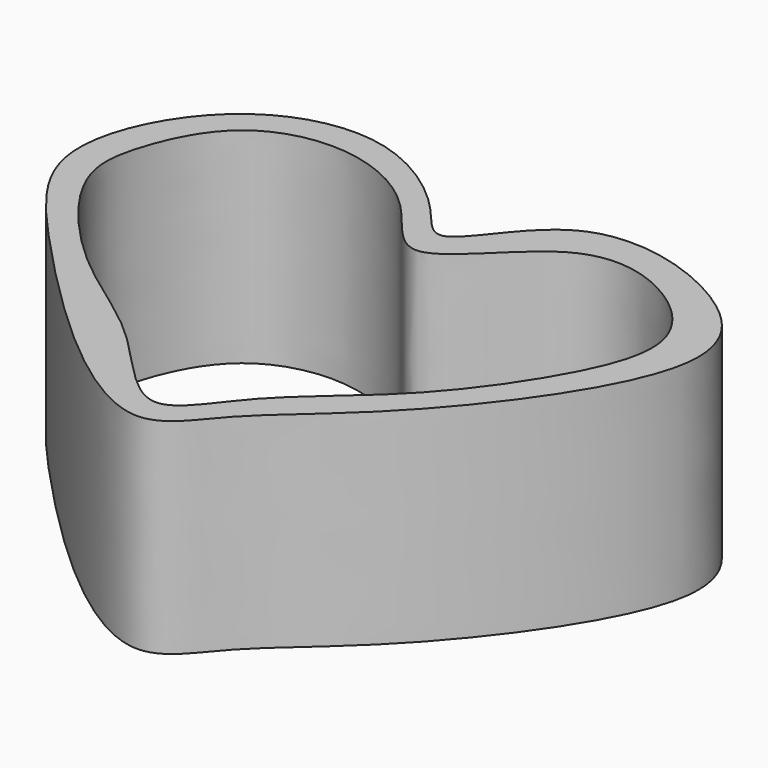
from build123d import *

# Parameters (mm, degrees)
F1_DEPTH = 25.4


with BuildPart() as f1:
    # F0 (on Top) → F1 (new body)
    with BuildSketch(Plane.XY):
        with BuildLine():
            add(Edge.make_bspline(
                [(0, 3.969962243), (-1.4711478294, 3.5493064684), (-4.6481318282, 8.7664928556), (-16.8119907928, 17.6968670143), (-33.2693495807, 13.3531434485), (-42.4206137233, -5.0840437629), (-30.2708044064, -20.2894567388), (-0.1467169212, -50.0700171099), (7.3907396958, -37.4490982928), (19.8203308105, -28.6490432386), (38.448866224, -3.6642330756), (31.829444703, 10.4058319146), (8.4323408776, 18.5212601119), (2.2230588448, 4.6056172884), (0, 3.969962243)],
                knots=[0, 0, 0, 0, 0.0494297399, 0.1275828912, 0.2071141356, 0.2904201571, 0.3813462208, 0.5057416598, 0.5669042304, 0.6495948325, 0.7594459284, 0.832669946, 0.9253064727, 1, 1, 1, 1], degree=3))
        make_face()
        with BuildLine():
            add(Edge.make_bspline(
                [(0, 0), (-2.5821169337, -0.1877222818), (-6.8266116849, 7.9570591194), (-18.6265981808, 13.3431791581), (-30.311502811, 10.1895534316), (-34.9944428397, -0.0247094567), (-36.0540486217, -8.544938214), (-23.5044985736, -23.0670396238), (-10.9725696081, -29.8834201593), (0.0959685309, -44.7365498299), (6.6697809917, -33.1792507035), (17.6704960954, -25.2660522514), (27.174709332, -12.6230273826), (32.6329949565, 0.2700214174), (23.6486090086, 9.4046576854), (10.8629497292, 11.9505655438), (3.161310986, 0.2298302235), (0, 0)],
                knots=[0, 0, 0, 0, 0.0590835404, 0.1269268184, 0.1892118446, 0.2498723322, 0.3032209235, 0.3826452405, 0.4591100703, 0.5296473666, 0.5866965376, 0.6581873755, 0.7342128988, 0.8008137181, 0.8631235356, 0.9276634443, 1, 1, 1, 1], degree=3))
        make_face(mode=Mode.SUBTRACT)
    extrude(amount=F1_DEPTH)


solid = f1.part
